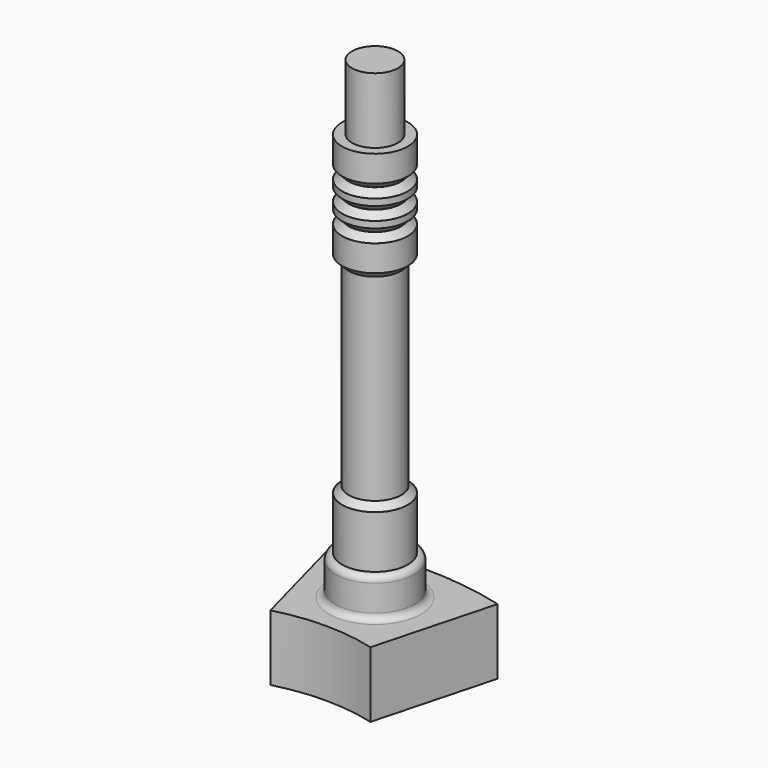
from build123d import *

# Parameters (mm, degrees)
PAD_DEPTH       = 10
SKETCH002_R     = 5
PAD001_DEPTH    = 14
SKETCH003_R     = 4
PAD002_DEPTH    = 32
SKETCH004_R     = 5
PAD003_DEPTH    = 4
SKETCH005_R     = 4
PAD004_DEPTH    = 2
CHAMFER_SIZE    = 0.99
CHAMFER001_SIZE = 0.99
SKETCH006_R     = 5
PAD005_DEPTH    = 1
SKETCH007_R     = 4
PAD006_DEPTH    = 2
SKETCH008_R     = 5
PAD007_DEPTH    = 1
SKETCH009_R     = 4
PAD008_DEPTH    = 2
SKETCH010_R     = 5
PAD009_DEPTH    = 4
SKETCH011_R     = 6
PAD010_DEPTH    = 6
FILLET_R        = 0.99
FILLET001_R     = 1
SKETCH012_R     = 3.5
PAD011_DEPTH    = 10
CHAMFER002_SIZE = 0.99


with BuildPart() as part:
    # Sketch → Pad (new body)
    with BuildSketch(Plane.XY):
        with BuildLine():
            ThreePointArc((7.602809, 28.374071), (0, 29.375), (-7.602809, 28.374071))
            Line((-12.455667, 46.48518), (-7.602809, 28.374071))
            ThreePointArc((12.455667, 46.48518), (0, 48.125), (-12.455667, 46.48518))
            Line((7.602809, 28.374071), (12.455667, 46.48518))
        make_face()
    extrude(amount=PAD_DEPTH)

    # Sketch002 (on Face6 of Pad) → Pad001 (join)
    with BuildSketch(Plane.XY.offset(10)):
        with Locations((0, 38.75)):
            Circle(SKETCH002_R)
    extrude(amount=PAD001_DEPTH)

    # Sketch003 (on Face8 of Pad001) → Pad002 (join)
    with BuildSketch(Plane.XY.offset(24)):
        with Locations((0, 38.75)):
            Circle(SKETCH003_R)
    extrude(amount=PAD002_DEPTH)

    # Sketch004 (on Face10 of Pad002) → Pad003 (join)
    with BuildSketch(Plane.XY.offset(56)):
        with Locations((0, 38.75)):
            Circle(SKETCH004_R)
    extrude(amount=PAD003_DEPTH)

    # Sketch005 (on Face3 of Pad003) → Pad004 (join)
    with BuildSketch(Plane.XY.offset(60)):
        with Locations((0, 38.75)):
            Circle(SKETCH005_R)
    extrude(amount=PAD004_DEPTH)

    # Chamfer
    chamfer_edges = [part.edges().sort_by_distance(p)[0] for p in [
        (-4, 38.75, 24),
    ]]
    chamfer(chamfer_edges, length=CHAMFER_SIZE)

    # Chamfer001
    chamfer001_edges = [part.edges().sort_by_distance(p)[0] for p in [
        (-4, 38.75, 56),
    ]]
    chamfer(chamfer001_edges, length=CHAMFER001_SIZE)

    # Sketch006 (on Face15 of Chamfer001) → Pad005 (join)
    with BuildSketch(Plane.XY.offset(62)):
        with Locations((0, 38.75)):
            Circle(SKETCH006_R)
    extrude(amount=PAD005_DEPTH)

    # Sketch007 (on Face3 of Pad005) → Pad006 (join)
    with BuildSketch(Plane.XY.offset(63)):
        with Locations((0, 38.75)):
            Circle(SKETCH007_R)
    extrude(amount=PAD006_DEPTH)

    # Sketch008 (on Face7 of Pad006) → Pad007 (join)
    with BuildSketch(Plane.XY.offset(65)):
        with Locations((0, 38.75)):
            Circle(SKETCH008_R)
    extrude(amount=PAD007_DEPTH)

    # Sketch009 (on Face3 of Pad007) → Pad008 (join)
    with BuildSketch(Plane.XY.offset(66)):
        with Locations((0, 38.75)):
            Circle(SKETCH009_R)
    extrude(amount=PAD008_DEPTH)

    # Sketch010 (on Face7 of Pad008) → Pad009 (join)
    with BuildSketch(Plane.XY.offset(68)):
        with Locations((0, 38.75)):
            Circle(SKETCH010_R)
    extrude(amount=PAD009_DEPTH)

    # Sketch011 (on Face21 of Pad009) → Pad010 (join)
    with BuildSketch(Plane.XY.offset(10)):
        with Locations((0, 38.75)):
            Circle(SKETCH011_R)
    extrude(amount=PAD010_DEPTH)

    # Fillet
    fillet_edges = [part.edges().sort_by_distance(p)[0] for p in [
        (-6, 38.75, 16),
    ]]
    fillet(fillet_edges, radius=FILLET_R)

    # Fillet001
    fillet001_edges = [part.edges().sort_by_distance(p)[0] for p in [
        (-6, 38.75, 10),
    ]]
    fillet(fillet001_edges, radius=FILLET001_R)

    # Sketch012 (on Face30 of Fillet001) → Pad011 (join)
    with BuildSketch(Plane.XY.offset(72)):
        with Locations((0, 38.75)):
            Circle(SKETCH012_R)
    extrude(amount=PAD011_DEPTH)

    # Chamfer002
    chamfer002_edges = [part.edges().sort_by_distance(p)[0] for p in [
        (-4, 38.75, 68),
        (-4, 38.75, 65),
        (-4, 38.75, 62),
        (-4, 38.75, 66),
        (-4, 38.75, 63),
        (-4, 38.75, 60),
    ]]
    chamfer(chamfer002_edges, length=CHAMFER002_SIZE)


solid = part.part
